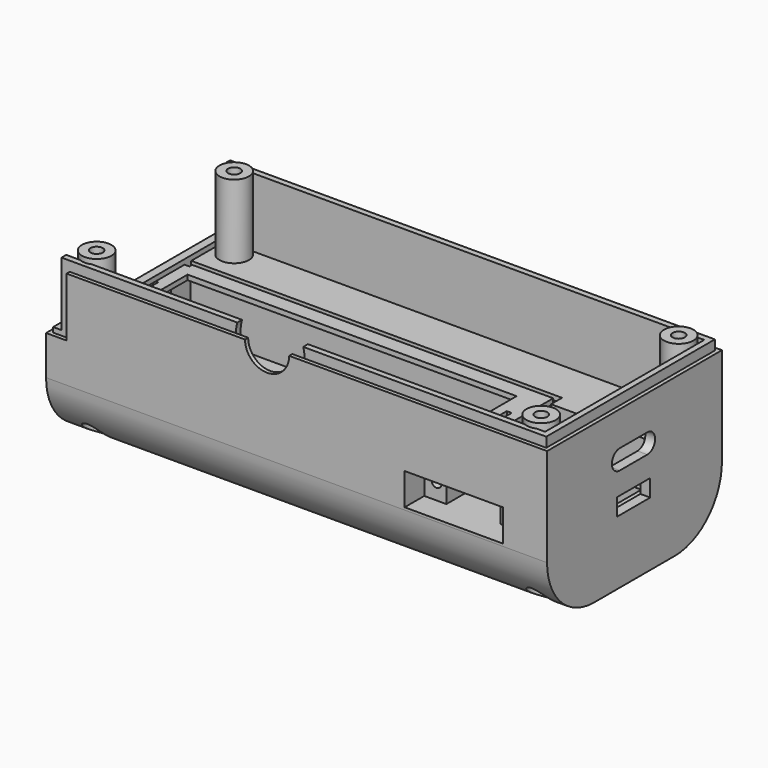
from build123d import *

# Parameters (mm, degrees)
SKETCH_W        = 102
SKETCH_H        = 44.5
PAD_DEPTH       = 16
SKETCH001_W     = 97.5
SKETCH001_H     = 40.5
POCKET_DEPTH    = 14
SKETCH002_R     = 3
PAD001_DEPTH    = 15
SKETCH004_W     = 102
SKETCH004_H     = 44.5
PAD002_DEPTH    = 18
SKETCH003_W     = 73
SKETCH003_H     = 19
POCKET001_DEPTH = 19
SKETCH005_W     = 67
SKETCH005_H     = 15
POCKET002_DEPTH = 5
SKETCH006_W     = 23
SKETCH006_H     = 18
POCKET003_DEPTH = 8
SKETCH009_W     = 18
SKETCH009_H     = 14
POCKET006_DEPTH = 10
FILLET_R        = 12
SKETCH007_R     = 1.25
POCKET004_DEPTH = 35
SKETCH008_R     = 2.375
POCKET005_DEPTH = 27
SKETCH010_W     = 8.5
SKETCH010_H     = 3.5
POCKET007_DEPTH = 5
POCKET008_DEPTH = 5
SKETCH012_R     = 4.5
POCKET009_DEPTH = 10
SKETCH013_R     = 7
POCKET010_DEPTH = 1.2
SKETCH014_W     = 19
SKETCH014_H     = 2
POCKET011_DEPTH = 77
SKETCH015_W     = 21
SKETCH015_H     = 1
POCKET012_DEPTH = 78
SKETCH016_W     = 1
SKETCH016_H     = 5
PAD003_DEPTH    = 16
SKETCH017_R     = 1
POCKET013_DEPTH = 5
SKETCH018_W     = 1
SKETCH018_H     = 5
POCKET014_DEPTH = 1
SKETCH019_W     = 20
SKETCH019_H     = 6.5
POCKET015_DEPTH = 5
SKETCH020_W     = 11
SKETCH020_H     = 6.5
POCKET016_DEPTH = 8
SKETCH021_R     = 1
POCKET017_DEPTH = 5
SKETCH022_W     = 2.5
SKETCH022_H     = 44.5
POCKET018_DEPTH = 13
POCKET019_DEPTH = 2
POCKET020_DEPTH = 14
POCKET021_DEPTH = 1
SKETCH026_W     = 3
SKETCH026_H     = 5
POCKET022_DEPTH = 10


with BuildPart() as part:
    # Sketch → Pad (new body)
    with BuildSketch(Plane.XY):
        with Locations((51, 22.25)):
            Rectangle(SKETCH_W, SKETCH_H)
    extrude(amount=PAD_DEPTH)

    # Sketch001 (on Face6 of Pad) → Pocket (cut)
    with BuildSketch(Plane.XY.offset(16)):
        with Locations((51.25, 22.25)):
            Rectangle(SKETCH001_W, SKETCH001_H)
    extrude(amount=-POCKET_DEPTH, mode=Mode.SUBTRACT)

    # Sketch002 (on Face11 of Pocket) → Pad001 (join)
    with BuildSketch(Plane.XY.offset(2)):
        with Locations((6.5, 39.75)):
            Circle(SKETCH002_R)
        with Locations((97, 39.75)):
            Circle(SKETCH002_R)
        with Locations((6.5, 4.75)):
            Circle(SKETCH002_R)
        with Locations((97, 4.75)):
            Circle(SKETCH002_R)
    extrude(amount=PAD001_DEPTH)

    # Sketch004 (on Face4 of Pad001) → Pad002 (join)
    with BuildSketch(Plane(origin=(0, 0, 0), x_dir=(1, 0, 0), z_dir=(0, 0, -1))):
        with Locations((51, -22.25)):
            Rectangle(SKETCH004_W, SKETCH004_H)
    extrude(amount=PAD002_DEPTH)

    # Sketch003 (on Face9 of Pad002) → Pocket001 (cut)
    with BuildSketch(Plane(origin=(0, 0, -18), x_dir=(1, 0, 0), z_dir=(0, 0, -1))):
        with Locations((38.5, -22.25)):
            Rectangle(SKETCH003_W, SKETCH003_H)
    extrude(amount=-POCKET001_DEPTH, mode=Mode.SUBTRACT)

    # Sketch005 (on Face36 of Pocket001) → Pocket002 (cut)
    with BuildSketch(Plane(origin=(0, 0, 1), x_dir=(1, 0, 0), z_dir=(0, 0, -1))):
        with Locations((38.5, -22.25)):
            Rectangle(SKETCH005_W, SKETCH005_H)
    extrude(amount=-POCKET002_DEPTH, mode=Mode.SUBTRACT)

    # Sketch006 (on Face29 of Pocket002) → Pocket003 (cut)
    with BuildSketch(Plane.XY.offset(2)):
        with Locations((88.5, 22)):
            Rectangle(SKETCH006_W, SKETCH006_H)
    extrude(amount=-POCKET003_DEPTH, mode=Mode.SUBTRACT)

    # Sketch009 (on Face45 of Pocket003) → Pocket006 (cut)
    with BuildSketch(Plane.XY.offset(-6)):
        with Locations((89, 22)):
            Rectangle(SKETCH009_W, SKETCH009_H)
    extrude(amount=-POCKET006_DEPTH, mode=Mode.SUBTRACT)

    # Fillet
    fillet_edges = [part.edges().sort_by_distance(p)[0] for p in [
        (51, 0, -18),
        (51, 44.5, -18),
    ]]
    fillet(fillet_edges, radius=FILLET_R)

    # Sketch007 (on DatumPlane) → Pocket004 (cut)
    with BuildSketch(Plane(origin=(0, 0, -18), x_dir=(1, 0, 0), z_dir=(0, 0, -1))):
        with Locations((6.5, -4.75)):
            Circle(SKETCH007_R)
        with Locations((97, -4.75)):
            Circle(SKETCH007_R)
        with Locations((6.5, -39.75)):
            Circle(SKETCH007_R)
        with Locations((97, -39.75)):
            Circle(SKETCH007_R)
    extrude(amount=-POCKET004_DEPTH, mode=Mode.SUBTRACT)

    # Sketch008 (on DatumPlane) → Pocket005 (cut)
    with BuildSketch(Plane(origin=(0, 0, -18), x_dir=(1, 0, 0), z_dir=(0, 0, -1))):
        with Locations((6.5, -4.75)):
            Circle(SKETCH008_R)
        with Locations((97, -4.75)):
            Circle(SKETCH008_R)
        with Locations((6.5, -39.75)):
            Circle(SKETCH008_R)
        with Locations((97, -39.75)):
            Circle(SKETCH008_R)
    extrude(amount=-POCKET005_DEPTH, mode=Mode.SUBTRACT)

    # Sketch010 (on Face46 of Pocket005) → Pocket007 (cut)
    with BuildSketch(Plane(origin=(100, 0, 0), x_dir=(0, -1, 0), z_dir=(-1, 0, 0))):
        with Locations((-22, -3.25)):
            Rectangle(SKETCH010_W, SKETCH010_H)
    extrude(amount=-POCKET007_DEPTH, mode=Mode.SUBTRACT)

    # Sketch011 (on Face12 of Pocket007) → Pocket008 (cut)
    with BuildSketch(Plane.YZ.offset(102)):
        with BuildLine():
            ThreePointArc((18.5, 7), (16.5, 5), (18.5, 3))
            Line((18.5, 3), (25.5, 3))
            ThreePointArc((25.5, 3), (27.5, 5), (25.5, 7))
            Line((25.5, 7), (18.5, 7))
        make_face()
    extrude(amount=-POCKET008_DEPTH, mode=Mode.SUBTRACT)

    # Sketch012 (on Face4 of Pocket008) → Pocket009 (cut)
    with BuildSketch(Plane.XZ):
        with Locations((45, 14)):
            Circle(SKETCH012_R)
    extrude(amount=-POCKET009_DEPTH, mode=Mode.SUBTRACT)

    # Sketch013 (on Face33 of Pocket009) → Pocket010 (cut)
    with BuildSketch(Plane(origin=(0, 2, 0), x_dir=(-1, 0, 0), z_dir=(0, 1, 0))):
        with Locations((-45, 14)):
            Circle(SKETCH013_R)
    extrude(amount=-POCKET010_DEPTH, mode=Mode.SUBTRACT)

    # Sketch014 (on Face2 of Pocket010) → Pocket011 (cut)
    with BuildSketch(Plane(origin=(0, 0, 0), x_dir=(0, -1, 0), z_dir=(-1, 0, 0))):
        with Locations((-22.25, -17)):
            Rectangle(SKETCH014_W, SKETCH014_H)
    extrude(amount=-POCKET011_DEPTH, mode=Mode.SUBTRACT)

    # Sketch015 (on Face2 of Pocket011) → Pocket012 (cut)
    with BuildSketch(Plane(origin=(0, 0, 0), x_dir=(0, -1, 0), z_dir=(-1, 0, 0))):
        with Locations((-22.25, -16.5)):
            Rectangle(SKETCH015_W, SKETCH015_H)
    extrude(amount=-POCKET012_DEPTH, mode=Mode.SUBTRACT)

    # Sketch016 (on Face64 of Pocket012) → Pad003 (join)
    with BuildSketch(Plane(origin=(0, 0, 1), x_dir=(1, 0, 0), z_dir=(0, 0, -1))):
        with Locations((3.5, -15.25)):
            Rectangle(SKETCH016_W, SKETCH016_H)
        with Locations((3.5, -29.25)):
            Rectangle(SKETCH016_W, SKETCH016_H)
        with Locations((73.5, -15.25)):
            Rectangle(SKETCH016_W, SKETCH016_H)
        with Locations((73.5, -29.25)):
            Rectangle(SKETCH016_W, SKETCH016_H)
    extrude(amount=PAD003_DEPTH)

    # Sketch017 (on Face71 of Pad003) → Pocket013 (cut)
    with BuildSketch(Plane(origin=(75, 0, 0), x_dir=(0, -1, 0), z_dir=(-1, 0, 0))):
        with Locations((-22.25, 0)):
            Circle(SKETCH017_R)
    extrude(amount=-POCKET013_DEPTH, mode=Mode.SUBTRACT)

    # Sketch018 (on Face64 of Pocket013) → Pocket014 (cut)
    with BuildSketch(Plane(origin=(0, 0, 1), x_dir=(1, 0, 0), z_dir=(0, 0, -1))):
        with Locations((2.5, -22.25)):
            Rectangle(SKETCH018_W, SKETCH018_H)
        with Locations((74.5, -22.25)):
            Rectangle(SKETCH018_W, SKETCH018_H)
    extrude(amount=-POCKET014_DEPTH, mode=Mode.SUBTRACT)

    # Sketch019 (on Face1 of Pocket014) → Pocket015 (cut)
    with BuildSketch(Plane.XZ):
        with Locations((83, -2.25)):
            Rectangle(SKETCH019_W, SKETCH019_H)
    extrude(amount=-POCKET015_DEPTH, mode=Mode.SUBTRACT)

    # Sketch020 (on Face25 of Pocket015) → Pocket016 (cut)
    with BuildSketch(Plane.XZ.offset(-5)):
        with Locations((83, -2.25)):
            Rectangle(SKETCH020_W, SKETCH020_H)
    extrude(amount=-POCKET016_DEPTH, mode=Mode.SUBTRACT)

    # Sketch021 (on Face25 of Pocket016) → Pocket017 (cut)
    with BuildSketch(Plane.XZ.offset(-5)):
        with Locations((75.5, -2.25)):
            Circle(SKETCH021_R)
        with Locations((90.5, -2.25)):
            Circle(SKETCH021_R)
    extrude(amount=-POCKET017_DEPTH, mode=Mode.SUBTRACT)

    # Sketch022 (on Face22 of Pocket017) → Pocket018 (cut)
    with BuildSketch(Plane.XY.offset(16)):
        with Locations((1.25, 22.25)):
            Rectangle(SKETCH022_W, SKETCH022_H)
    extrude(amount=-POCKET018_DEPTH, mode=Mode.SUBTRACT)

    # Sketch023 (on Face22 of Pocket018) → Pocket019 (cut)
    with BuildSketch(Plane.XY.offset(16)):
        Polygon((2.499048, 44.5), (102, 44.5), (102, 0), (2.5, 0), (2.5, 0.8), (101.2, 0.8), (101.2, 43.7), (2.499048, 43.7), align=None)
    extrude(amount=-POCKET019_DEPTH, mode=Mode.SUBTRACT)

    # Sketch024 (on Face60 of Pocket019) → Pocket020 (cut)
    with BuildSketch(Plane.XY.offset(16)):
        Polygon((4.163707, 0), (4.163707, 0.8), (0.800622, 0.8), (0.800622, 43.7), (4.5, 43.7), (4.5, 44.5), (0, 44.5), (0, 0), align=None)
    extrude(amount=-POCKET020_DEPTH, mode=Mode.SUBTRACT)

    # Sketch025 (on Face100 of Pocket020) → Pocket021 (cut)
    with BuildSketch(Plane.XY.offset(2)):
        Polygon((3.5, 32.127055), (3.5, 32.818859), (77, 32.818859), (77, 31), (78, 31), (78, 33.818859), (2.5, 33.818859), (2.5, 32.127055), align=None)
    extrude(amount=-POCKET021_DEPTH, mode=Mode.SUBTRACT)

    # Sketch026 (on Face125 of Pocket021) → Pocket022 (cut)
    with BuildSketch(Plane.XY.offset(2)):
        with Locations((85.5, 31.5)):
            Rectangle(SKETCH026_W, SKETCH026_H)
    extrude(amount=-POCKET022_DEPTH, mode=Mode.SUBTRACT)


solid = part.part
